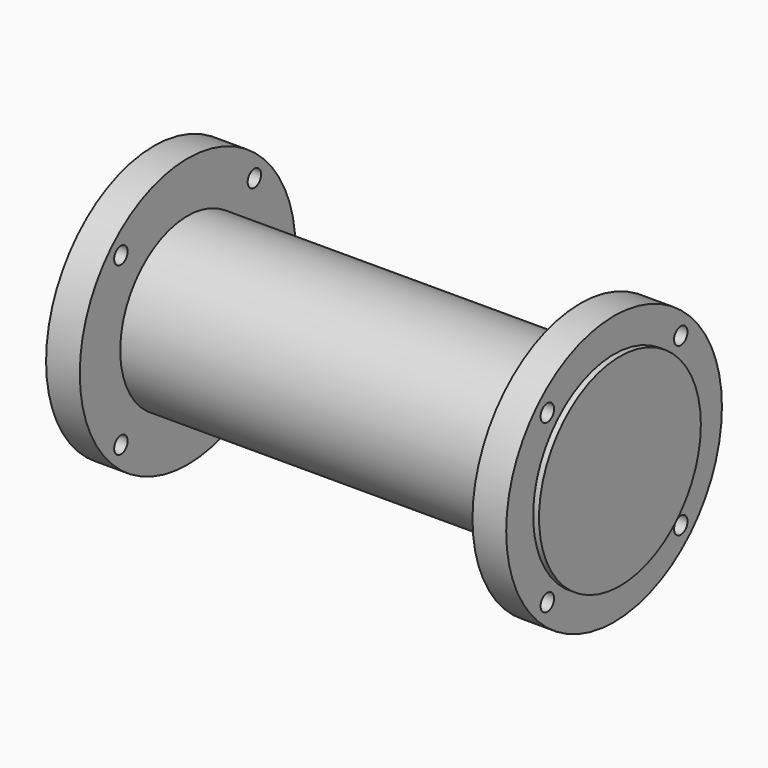
from build123d import *

# Parameters (mm, degrees)
SKETCH005_R     = 5
PAD002_DEPTH    = 14
SKETCH006_R     = 6
PAD003_DEPTH    = 0.35
SKETCH007_R     = 8
PAD004_DEPTH    = 2
SKETCH008_R     = 0.5
POCKET003_DEPTH = 2


with BuildPart() as part:
    # Sketch005 → Pad002 (new body, symmetric)
    with BuildSketch(Plane.YZ):
        Circle(SKETCH005_R)
    extrude(amount=PAD002_DEPTH, both=True)

    # Sketch006 (on DatumPlane) → Pad003 (new body)
    with BuildSketch(Plane.YZ.offset(13.65)):
        Circle(SKETCH006_R)
    pad003 = extrude(amount=PAD003_DEPTH)

    # Mirrored: Pad003 across YZ
    add(pad003.mirror(Plane.YZ))

    # Sketch007 (on DatumPlane) → Pad004 (new body)
    with BuildSketch(Plane.YZ.offset(13.65)):
        Circle(SKETCH007_R)
    pad004 = extrude(amount=-PAD004_DEPTH)

    # Mirrored001: Pad004 across YZ
    add(pad004.mirror(Plane.YZ))

    # Sketch008 (on DatumPlane) → Pocket003 (cut)
    with BuildSketch(Plane.YZ.offset(13.65)):
        with Locations((-4.949747, 4.949747)):
            Circle(SKETCH008_R)
        with Locations((4.949747, 4.949747)):
            Circle(SKETCH008_R)
        with Locations((4.949747, -4.949747)):
            Circle(SKETCH008_R)
        with Locations((-4.949747, -4.949747)):
            Circle(SKETCH008_R)
    pocket003 = extrude(amount=-POCKET003_DEPTH, mode=Mode.SUBTRACT)

    # Mirrored002: Pocket003 across YZ
    add(pocket003.mirror(Plane.YZ), mode=Mode.SUBTRACT)


solid = part.part
